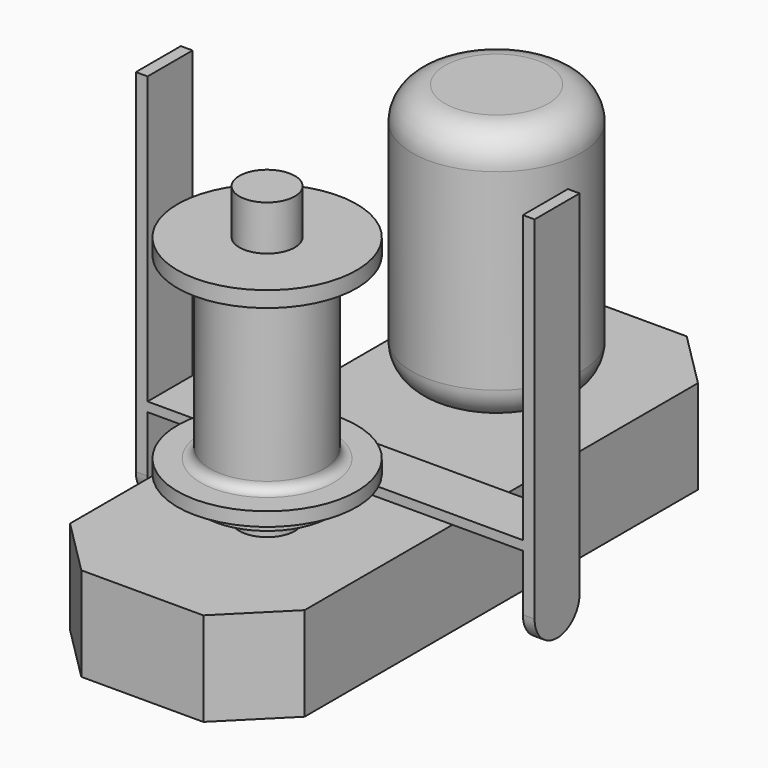
from build123d import *

# Parameters (mm, degrees)
F1_DEPTH  = 200
F2_R      = 30
F3_DEPTH  = 20
F4_R      = 180
F4_R_2    = 30
F5_DEPTH  = 550
F6_R      = 70
F9_W      = 150
F9_H      = 120
F9_W_2    = 500
F10_DEPTH = 20
F11_W     = 120
F11_H     = 610
F11_H_2   = 20
F12_DEPTH = 25
F13_W     = 120
F13_H     = 610
F13_H_2   = 20
F14_DEPTH = 25


with BuildPart() as f1:
    # F0 (on Top) → F1 (new body)
    with BuildSketch(Plane.XY):
        Polygon((130, 644), (-130, 644), (-250, 524), (-250, -524), (-130, -644), (130, -644), (250, -524), (250, 524), align=None)
    extrude(amount=F1_DEPTH)

    # F7 (on Right) → F8 (revolve)
    with BuildSketch(Plane.YZ):
        with BuildLine():
            Line((-311.4425307695, 180.1090220129), (-311.4425307695, 828))
            Line((-311.4425307695, 828), (-370.5881640514, 828))
            Line((-370.5881640514, 828), (-370.5881640514, 732.095262214))
            Line((-370.5881640514, 732.095262214), (-454.7894506796, 732.095262214))
            Line((-454.7894506796, 732.095262214), (-502.3891860064, 732.095262214))
            Line((-502.3891860064, 732.095262214), (-502.3891860064, 698.5087530038))
            Line((-502.3891860064, 698.5087530038), (-452.8364729815, 698.5087530038))
            ThreePointArc((-452.8364729815, 698.5087530038), (-438.6943373577, 692.6508886275), (-432.8364729815, 678.5087530038))
            Line((-432.8364729815, 678.5087530038), (-432.8364729814, 337.1917229872))
            ThreePointArc((-432.8364729814, 337.1917229872), (-438.6943373577, 323.0495873634), (-452.8364729814, 317.1917229872))
            Line((-452.8364729814, 317.1917229872), (-502.3891860064, 317.1917229872))
            Line((-502.3891860064, 317.1917229872), (-502.3891860064, 287.8596244668))
            Line((-502.3891860064, 287.8596244668), (-445.9703099532, 287.8596244668))
            Line((-445.9703099532, 287.8596244668), (-445.9703099532, 250.8757300317))
            Line((-445.9703099532, 250.8757300317), (-370.5881640514, 250.8757300317))
            Line((-370.5881640514, 250.8757300317), (-370.5881640514, 175.6325582598))
            Line((-370.5881640514, 175.6325582598), (-311.4425307695, 180.1090220129))
        make_face()
    revolve(axis=Axis((0, -311.4425307695, 504.0545110064), (0, 0, -1)))

    # F9 (on face) → F10 (join)
    with BuildSketch(Plane.XY.offset(200)):
        with Locations((325, -70)):
            Rectangle(F9_W, F9_H)
        with Locations((0, -70)):
            Rectangle(F9_W_2, F9_H)
        with Locations((-325, -70)):
            Rectangle(F9_W, F9_H)
    extrude(amount=F10_DEPTH)

    # F11 (on face) → F12 (join)
    with BuildSketch(Plane.YZ.offset(400)):
        with BuildLine():
            Line((-10, 80), (-10, 200))
            Line((-10, 200), (-130, 200))
            Line((-130, 200), (-130, 80))
            ThreePointArc((-130, 80), (-112.4264068712, 37.5735931288), (-70, 20))
            ThreePointArc((-70, 20), (-27.5735931288, 37.5735931288), (-10, 80))
        make_face()
        with Locations((-70, 525)):
            Rectangle(F11_W, F11_H)
        with Locations((-70, 210)):
            Rectangle(F11_W, F11_H_2)
    extrude(amount=F12_DEPTH)

    # F13 (on face) → F14 (join)
    with BuildSketch(Plane(origin=(-400, 0, 0), x_dir=(0, -1, 0), z_dir=(-1, 0, 0))):
        with Locations((70, 525)):
            Rectangle(F13_W, F13_H)
        with BuildLine():
            Line((130, 200), (10, 200))
            Line((10, 200), (10, 80))
            ThreePointArc((10, 80), (27.5735931288, 37.5735931288), (70, 20))
            ThreePointArc((70, 20), (112.4264068712, 37.5735931288), (130, 80))
            Line((130, 80), (130, 200))
        make_face()
        with Locations((70, 210)):
            Rectangle(F13_W, F13_H_2)
    extrude(amount=F14_DEPTH)


with BuildPart() as f3:
    # F2 (on face) → F3 (new body)
    with BuildSketch(Plane.XY.offset(200)):
        with Locations((0, 300)):
            Circle(F2_R)
    extrude(amount=F3_DEPTH)

    # F4 (on face) → F5 (join)
    with BuildSketch(Plane.XY.offset(220)):
        with Locations((0, 300)):
            Circle(F4_R)
        with Locations((0, 300)):
            Circle(F4_R_2, mode=Mode.SUBTRACT)
        with Locations((0, 300)):
            Circle(F4_R_2)
    extrude(amount=F5_DEPTH)

    # F6
    f6_edges = [f3.edges().sort_by_distance(p)[0] for p in [
        (-180, 300, 770),
        (-180, 300, 220),
    ]]
    fillet(f6_edges, radius=F6_R)


solid = Compound([f1.part, f3.part])
